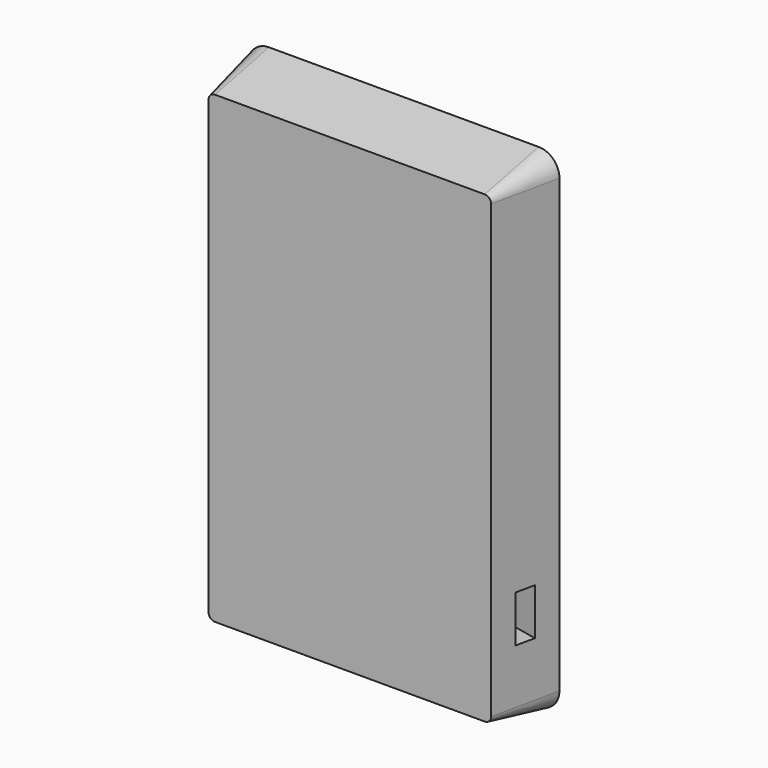
from build123d import *

# Parameters (mm, degrees)
F3_DEPTH = 13
F3_TAPER = 12
F1_W     = 3.75
F1_H     = 9
F2_DEPTH = 5


with BuildPart() as f3:
    # F0 (on Front) → F3 (new body)
    with BuildSketch(Plane.XZ):
        with BuildLine():
            ThreePointArc((0, 4), (1.1715728753, 1.1715728753), (4, 0))
            Line((4, 0), (56, 0))
            ThreePointArc((56, 0), (58.8284271247, 1.1715728753), (60, 4))
            Line((60, 4), (60, 91))
            ThreePointArc((60, 91), (58.8284271247, 93.8284271247), (56, 95))
            Line((56, 95), (4, 95))
            ThreePointArc((4, 95), (1.1715728753, 93.8284271247), (0, 91))
            Line((0, 91), (0, 4))
        make_face()
    extrude(amount=F3_DEPTH, taper=F3_TAPER)

    # F1 (on face) → F2 (cut)
    with BuildSketch(Plane(origin=(57.4063637293, -12.2020992923, 0), x_dir=(0.2079116908, 0.9781476007, 0), z_dir=(0.9781476007, -0.2079116908, 0))):
        with Locations((5.8294875824, 19)):
            Rectangle(F1_W, F1_H)
    extrude(amount=-F2_DEPTH, mode=Mode.SUBTRACT)


solid = f3.part
